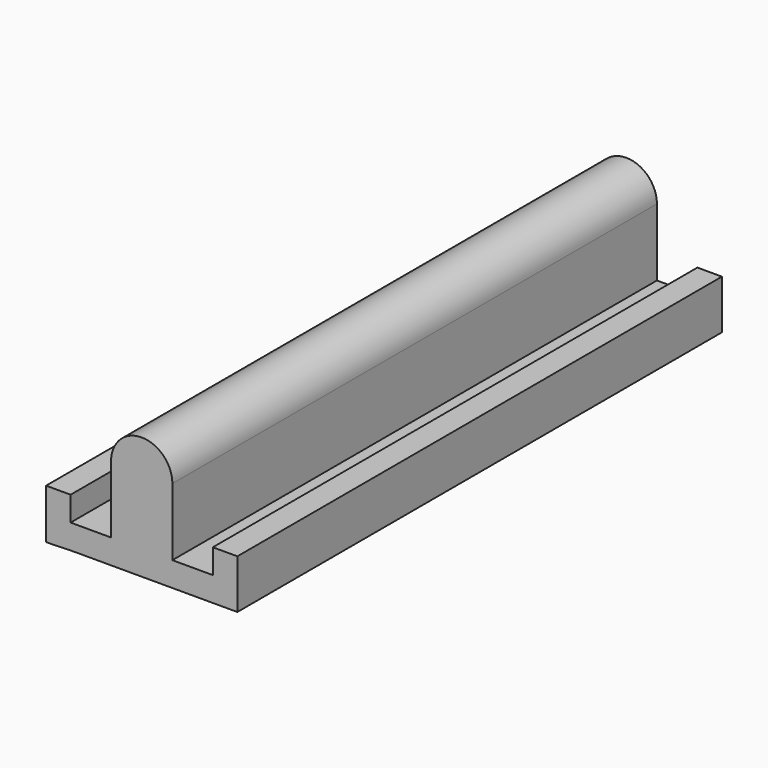
from build123d import *

# Parameters (mm, degrees)
F1_DEPTH = 49.4


with BuildPart() as f1:
    # F0 (on Front) → F1 (new body)
    with BuildSketch(Plane.XZ):
        with BuildLine():
            Line((2, 0), (0, 0))
            Line((0, 0), (-0.3, 0))
            Line((-0.3, 0), (-0.3, 2))
            Line((-0.3, 2), (-2.3, 2))
            Line((-2.3, 2), (-2.3, -2.057184))
            Line((-2.3, -2.057184), (0, -2))
            Line((0, -2), (9, -2))
            Line((9, -2), (13.3, -2))
            Line((13.3, -2), (13.3, 2))
            Line((13.3, 2), (11.3, 2))
            Line((11.3, 2), (11.3, 0))
            Line((11.3, 0), (11, 0))
            Line((11, 0), (8, 0))
            Line((8, 0), (8, 5.5))
            ThreePointArc((8, 5.5), (5.5, 8), (3, 5.5))
            Line((3, 5.5), (3, 0))
            Line((3, 0), (2, 0))
        make_face()
    extrude(amount=F1_DEPTH)


solid = f1.part
